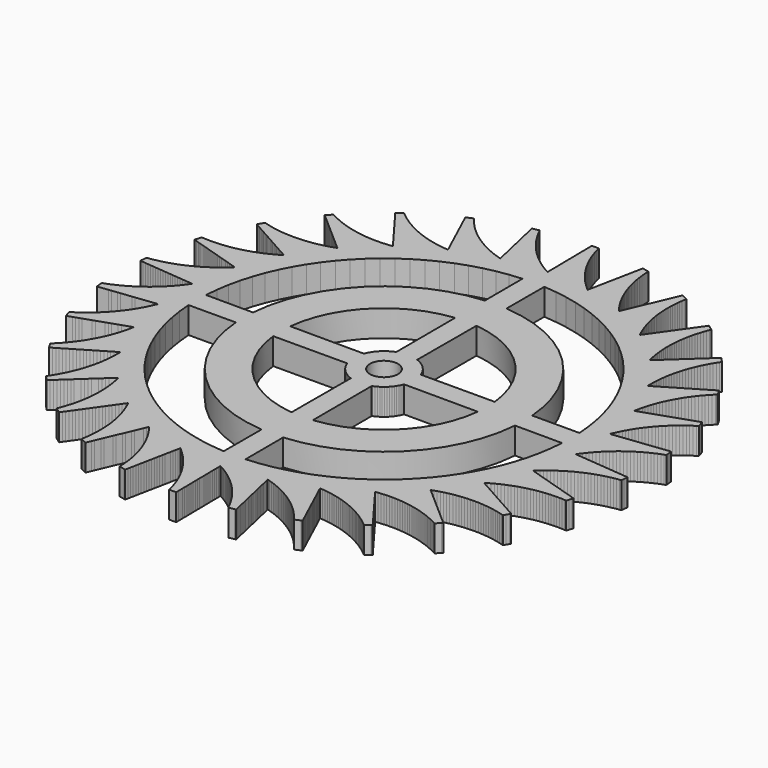
from build123d import *

# Parameters (mm, degrees)
F0_R     = 2.65
F1_DEPTH = 5


with BuildPart() as f1:
    # F0 (on Top) → F1 (new body)
    with BuildSketch(Plane.XY):
        Polygon((-36.566213, 33.860984), (-36.716125, 33.940037), (-37.058747, 33.559517), (-37.401369, 33.178997), (-37.59199, 32.967291), (-37.207018, 32.629679), (-36.822046, 32.292068), (-36.437074, 31.954456), (-36.052102, 31.616845), (-35.66713, 31.279233), (-35.282157, 30.941622), (-34.897185, 30.60401), (-34.512213, 30.266399), (-34.127241, 29.928787), (-33.742269, 29.591175), (-33.357297, 29.253564), (-32.972324, 28.915952), (-32.587352, 28.578341), (-32.20238, 28.240729), (-31.817408, 27.903118), (-31.432436, 27.565506), (-31.047464, 27.227895), (-30.662491, 26.890283), (-30.277519, 26.552672), (-29.892547, 26.21506), (-29.575384, 25.936915), (-30.059562, 25.770314), (-30.547846, 25.616159), (-31.039916, 25.474551), (-31.528298, 25.334004), (-32.026202, 25.21452), (-32.527001, 25.107817), (-33.030367, 25.013966), (-33.529961, 24.920819), (-34.037017, 24.849548), (-34.545731, 24.791278), (-35.055769, 24.746047), (-35.561986, 24.701155), (-36.073536, 24.678753), (-36.585491, 24.66945), (-36.924325, 24.663294), (-37.436261, 24.673613), (-37.947766, 24.697031), (-38.458503, 24.733533), (-38.965414, 24.769761), (-39.474011, 24.829042), (-39.980924, 24.90132), (-40.485821, 24.986548), (-40.986935, 25.071138), (-41.487521, 25.178835), (-41.985187, 25.299309), (-42.479606, 25.432481), (-42.970321, 25.564654), (-43.226341, 25.121215), (-43.482361, 24.677775), (-43.6248, 24.431062), (-43.178047, 24.180868), (-42.731294, 23.930675), (-42.284541, 23.680481), (-41.837788, 23.430287), (-41.391035, 23.180094), (-40.944282, 22.9299), (-40.497529, 22.679706), (-40.050777, 22.429513), (-39.604024, 22.179319), (-39.157271, 21.929125), (-38.710518, 21.678931), (-38.263765, 21.428738), (-37.817012, 21.178544), (-37.370259, 20.92835), (-36.923506, 20.678157), (-36.476753, 20.427963), (-36.03, 20.177769), (-35.583247, 19.927576), (-35.136494, 19.677382), (-34.689741, 19.427188), (-34.321679, 19.221063), (-34.760638, 18.957436), (-35.206202, 18.70513), (-35.658076, 18.46431), (-36.106565, 18.225294), (-36.568746, 18.0049), (-37.036417, 17.796407), (-37.50927, 17.599952), (-37.978581, 17.404968), (-38.459738, 17.229832), (-38.94522, 17.067068), (-39.434709, 16.916782), (-39.92053, 16.767623), (-40.416244, 16.639353), (-40.915078, 16.523812), (-41.416706, 16.421077), (-41.914575, 16.319111), (-42.420291, 16.238886), (-42.927895, 16.17163), (-43.437054, 16.117388), (-43.942398, 16.063553), (-44.453472, 16.03211), (-44.965183, 16.013757), (-45.303855, 16.00161), (-45.815893, 16.002877), (-46.327732, 16.017247), (-46.839035, 16.044713), (-47.346506, 16.071973), (-47.504736, 15.584994), (-47.662965, 15.098015), (-47.750997, 14.827079), (-47.261989, 14.675238), (-46.77298, 14.523396), (-46.283972, 14.371555), (-45.794963, 14.219714), (-45.305954, 14.067873), (-44.816946, 13.916032), (-44.327937, 13.76419), (-43.838929, 13.612349), (-43.34992, 13.460508), (-42.860912, 13.308667), (-42.371903, 13.156826), (-41.882895, 13.004984), (-41.393886, 12.853143), (-40.904878, 12.701302), (-40.415869, 12.549461), (-39.92686, 12.39762), (-39.437852, 12.245778), (-38.948843, 12.093937), (-38.459835, 11.942096), (-37.970826, 11.790255), (-37.567951, 11.665159), (-37.942508, 11.316028), (-38.325877, 10.976597), (-38.717808, 10.647089), (-39.106801, 10.32005), (-39.513061, 10.00838), (-39.927163, 9.707209), (-40.348839, 9.416735), (-40.767354, 9.128437), (-41.201584, 8.85709), (-41.642617, 8.596945), (-42.090163, 8.348173), (-42.534355, 8.101265), (-42.992568, 7.872734), (-43.456479, 7.656004), (-43.925785, 7.451219), (-44.391574, 7.247969), (-44.86956, 7.064353), (-45.352088, 6.89303), (-45.838844, 6.734113), (-46.321951, 6.576387), (-46.81532, 6.439373), (-47.312033, 6.315031), (-47.811766, 6.203442), (-48.307754, 6.092689), (-48.811973, 6.003536), (-49.318309, 5.927316), (-49.653423, 5.87687), (-49.706946, 5.367635), (-49.760468, 4.8584), (-49.790246, 4.575081), (-49.280354, 4.528228), (-48.770462, 4.481376), (-48.26057, 4.434523), (-47.750678, 4.387671), (-47.240786, 4.340818), (-46.730894, 4.293966), (-46.221002, 4.247113), (-45.71111, 4.200261), (-45.201217, 4.153408), (-44.691325, 4.106556), (-44.181433, 4.059703), (-43.671541, 4.012851), (-43.161649, 3.965998), (-42.651757, 3.919146), (-42.141865, 3.872293), (-41.631973, 3.825441), (-41.122081, 3.778588), (-40.612189, 3.731736), (-40.102297, 3.684883), (-39.592404, 3.638031), (-39.172324, 3.599431), (-39.466107, 3.180055), (-39.770527, 2.768334), (-40.085385, 2.36454), (-40.397883, 1.963771), (-40.730465, 1.574446), (-41.072901, 1.193759), (-41.424969, 0.821961), (-41.774398, 0.452949), (-42.142723, 0.09725), (-42.520031, -0.248906), (-42.906074, -0.585292), (-43.289225, -0.919157), (-43.68991, -1.237962), (-44.098623, -1.546408), (-44.515097, -1.844292), (-44.928449, -2.139944), (-45.357814, -2.418926), (-45.794178, -2.686828), (-46.237256, -2.943475), (-46.677013, -3.198198), (-47.131114, -3.434795), (-47.59112, -3.659693), (-48.056732, -3.872743), (-48.518855, -4.084198), (-48.99352, -4.276236), (-49.472943, -4.456063), (-49.790246, -4.575081), (-49.736724, -5.084316), (-49.683201, -5.593551), (-49.653423, -5.87687), (-49.144932, -5.816686), (-48.636441, -5.756502), (-48.12795, -5.696318), (-47.619459, -5.636134), (-47.110968, -5.575951), (-46.602477, -5.515767), (-46.093986, -5.455583), (-45.585496, -5.395399), (-45.077005, -5.335215), (-44.568514, -5.275031), (-44.060023, -5.214847), (-43.551532, -5.154663), (-43.043041, -5.09448), (-42.53455, -5.034296), (-42.026059, -4.974112), (-41.517568, -4.913928), (-41.009077, -4.853744), (-40.500586, -4.79356), (-39.992095, -4.733376), (-39.483605, -4.673193), (-39.064679, -4.623609), (-39.264849, -5.094902), (-39.477015, -5.560918), (-39.701039, -6.021351), (-39.923384, -6.478334), (-40.167752, -6.9283), (-40.423556, -7.371864), (-40.690629, -7.808736), (-40.955701, -8.242334), (-41.242023, -8.66684), (-41.539116, -9.083878), (-41.846785, -9.493176), (-42.152148, -9.899407), (-42.477794, -10.294552), (-42.813446, -10.681234), (-43.158885, -11.059199), (-43.501736, -11.434331), (-43.863714, -11.796487), (-44.234842, -12.14926), (-44.614878, -12.492419), (-44.992066, -12.833006), (-45.387052, -13.158846), (-45.790247, -13.47447), (-46.201389, -13.779671), (-46.609449, -14.082585), (-47.033814, -14.369115), (-47.465373, -14.644691), (-47.750997, -14.827079), (-47.592768, -15.314058), (-47.434539, -15.801037), (-47.346506, -16.071973), (-46.86164, -15.907383), (-46.376774, -15.742793), (-45.891908, -15.578204), (-45.407042, -15.413614), (-44.922175, -15.249024), (-44.437309, -15.084434), (-43.952443, -14.919844), (-43.467577, -14.755254), (-42.98271, -14.590664), (-42.497844, -14.426074), (-42.012978, -14.261484), (-41.528112, -14.096894), (-41.043245, -13.932304), (-40.558379, -13.767715), (-40.073513, -13.603125), (-39.588647, -13.438535), (-39.10378, -13.273945), (-38.618914, -13.109355), (-38.134048, -12.944765), (-37.649182, -12.780175), (-37.249719, -12.644576), (-37.347528, -13.147188), (-37.458167, -13.647132), (-37.581566, -14.14408), (-37.70404, -14.637305), (-37.849516, -15.128245), (-38.007508, -15.615301), (-38.177914, -16.098154), (-38.347043, -16.577389), (-38.538849, -17.052147), (-38.742742, -17.521841), (-38.95859, -17.986163), (-39.17282, -18.447006), (-39.409195, -18.901222), (-39.657116, -19.34924), (-39.916423, -19.790765), (-40.173787, -20.228983), (-40.452559, -20.658484), (-40.742232, -21.08071), (-41.042616, -21.495384), (-41.340749, -21.906951), (-41.659358, -22.307792), (-41.988121, -22.700348), (-42.326823, -23.084361), (-42.662987, -23.465496), (-43.018505, -23.833996), (-43.383338, -24.193275), (-43.6248, -24.431062), (-43.36878, -24.874502), (-43.11276, -25.317942), (-42.970321, -25.564654), (-42.53027, -25.302852), (-42.090219, -25.041049), (-41.650169, -24.779247), (-41.210118, -24.517444), (-40.770068, -24.255641), (-40.330017, -23.993839), (-39.889966, -23.732036), (-39.449916, -23.470234), (-39.009865, -23.208431), (-38.569815, -22.946628), (-38.129764, -22.684826), (-37.689714, -22.423023), (-37.249663, -22.161221), (-36.809612, -21.899418), (-36.369562, -21.637616), (-35.929511, -21.375813), (-35.489461, -21.11401), (-35.04941, -20.852208), (-34.609359, -20.590405), (-34.169309, -20.328603), (-33.806769, -20.112914), (-33.797941, -20.624878), (-33.802218, -21.1369), (-33.819599, -21.648645), (-33.83685, -22.156556), (-33.877074, -22.667013), (-33.930349, -23.176274), (-33.99664, -23.684005), (-34.062435, -24.187931), (-34.151342, -24.692194), (-34.253124, -25.194016), (-34.367718, -25.693069), (-34.481452, -26.188382), (-34.618224, -26.681817), (-34.76758, -27.171591), (-34.929422, -27.657381), (-35.090052, -28.139531), (-35.273433, -28.617607), (-35.46899, -29.090832), (-35.676595, -29.558898), (-35.882644, -30.023456), (-36.11095, -30.481781), (-36.350912, -30.934112), (-36.602372, -31.380154), (-36.851947, -31.822853), (-37.123082, -32.257216), (-37.405244, -32.684498), (-37.59199, -32.967291), (-37.249369, -33.347811), (-36.906747, -33.728331), (-36.716125, -33.940037), (-36.340123, -33.592464), (-35.96412, -33.244891), (-35.588118, -32.897318), (-35.212115, -32.549744), (-34.836112, -32.202171), (-34.46011, -31.854598), (-34.084107, -31.507025), (-33.708105, -31.159451), (-33.332102, -30.811878), (-32.956099, -30.464305), (-32.580097, -30.116732), (-32.204094, -29.769159), (-31.828092, -29.421585), (-31.452089, -29.074012), (-31.076086, -28.726439), (-30.700084, -28.378866), (-30.324081, -28.031292), (-29.948079, -27.683719), (-29.572076, -27.336146), (-29.196073, -26.988573), (-28.8863, -26.702221), (-28.771221, -27.201162), (-28.66895, -27.702884), (-28.579553, -28.20706), (-28.490827, -28.707458), (-28.424042, -29.215124), (-28.370271, -29.724333), (-28.329551, -30.234752), (-28.289135, -30.741346), (-28.271257, -31.253074), (-28.266481, -31.765091), (-28.274811, -32.277064), (-28.283079, -32.7852), (-28.314271, -33.296289), (-28.358534, -33.806412), (-28.415838, -34.315236), (-28.472712, -34.820247), (-28.552689, -35.326002), (-28.645583, -35.829546), (-28.751335, -36.330546), (-28.856294, -36.827793), (-28.984321, -37.323569), (-29.124994, -37.815907), (-29.278221, -38.304483), (-29.430301, -38.789398), (-29.605201, -39.270641), (-29.79236, -39.74725), (-29.91623, -40.062691), (-29.501981, -40.36366), (-29.087732, -40.66463), (-28.857259, -40.832078), (-28.561738, -40.413925), (-28.266216, -39.995771), (-27.970695, -39.577618), (-27.675173, -39.159465), (-27.379652, -38.741311), (-27.08413, -38.323158), (-26.788609, -37.905005), (-26.493087, -37.486852), (-26.197566, -37.068698), (-25.902044, -36.650545), (-25.606523, -36.232392), (-25.311001, -35.814239), (-25.01548, -35.396085), (-24.719958, -34.977932), (-24.424437, -34.559779), (-24.128915, -34.141626), (-23.833394, -33.723472), (-23.537872, -33.305319), (-23.242351, -32.887166), (-22.946829, -32.469013), (-22.703361, -32.124513), (-22.487062, -32.588624), (-22.282711, -33.05812), (-22.090444, -33.532692), (-21.899617, -34.003707), (-21.728742, -34.486394), (-21.570276, -34.973296), (-21.424324, -35.464095), (-21.279465, -35.951215), (-21.155583, -36.448044), (-21.044457, -36.94788), (-20.94616, -37.450396), (-20.848599, -37.949147), (-20.772849, -38.455553), (-20.710083, -38.963732), (-20.660345, -39.473351), (-20.610979, -39.979151), (-20.584056, -40.490482), (-20.570227, -41.002336), (-20.569504, -41.514375), (-20.568786, -42.022578), (-20.590937, -42.534139), (-20.626173, -43.044965), (-20.674472, -43.554722), (-20.722409, -44.06066), (-20.793431, -44.567751), (-20.877408, -45.072857), (-20.932987, -45.407159), (-20.465215, -45.615424), (-19.997443, -45.82369), (-19.737193, -45.939561), (-19.535068, -45.469103), (-19.332943, -44.998645), (-19.130819, -44.528187), (-18.928694, -44.057729), (-18.726569, -43.587271), (-18.524445, -43.116813), (-18.32232, -42.646355), (-18.120195, -42.175897), (-17.91807, -41.705439), (-17.715946, -41.234981), (-17.513821, -40.764523), (-17.311696, -40.294065), (-17.109572, -39.823607), (-16.907447, -39.353149), (-16.705322, -38.882691), (-16.503198, -38.412233), (-16.301073, -37.941775), (-16.098948, -37.471317), (-15.896823, -37.000859), (-15.694699, -36.530401), (-15.528176, -36.142809), (-15.220109, -36.551808), (-14.922611, -36.968557), (-14.635876, -37.392783), (-14.35129, -37.813831), (-14.083792, -38.250444), (-13.827557, -38.693759), (-13.582751, -39.143487), (-13.339779, -39.589845), (-13.115308, -40.05006), (-12.902689, -40.515869), (-12.702061, -40.986967), (-12.502936, -41.454535), (-12.323553, -41.934125), (-12.156503, -42.418149), (-12.001896, -42.90629), (-11.848447, -43.390774), (-11.7158, -43.885334), (-11.595854, -44.383127), (-11.488687, -44.883827), (-11.382324, -45.380775), (-11.297631, -45.885763), (-11.22589, -46.392752), (-11.167149, -46.901412), (-11.108848, -47.40626), (-11.072888, -47.917036), (-11.050012, -48.428565), (-11.034872, -48.767116), (-10.534021, -48.873575), (-10.03317, -48.980034), (-9.754516, -49.039264), (-9.654622, -48.537063), (-9.554728, -48.034861), (-9.454834, -47.53266), (-9.35494, -47.030458), (-9.255046, -46.528257), (-9.155152, -46.026055), (-9.055258, -45.523854), (-8.955363, -45.021653), (-8.855469, -44.519451), (-8.755575, -44.01725), (-8.655681, -43.515048), (-8.555787, -43.012847), (-8.455893, -42.510645), (-8.355999, -42.008444), (-8.256105, -41.506242), (-8.156211, -41.004041), (-8.056317, -40.50184), (-7.956423, -39.999638), (-7.856529, -39.497437), (-7.756635, -38.995235), (-7.674336, -38.581491), (-7.287965, -38.917502), (-6.910321, -39.26329), (-6.54165, -39.618631), (-6.175742, -39.971309), (-5.823313, -40.342765), (-5.480507, -40.723118), (-5.147547, -41.11212), (-4.817082, -41.498208), (-4.501832, -41.901696), (-4.197011, -42.313119), (-3.902821, -42.73221), (-3.610834, -43.14816), (-3.335659, -43.579975), (-3.071625, -44.01869), (-2.818906, -44.464019), (-2.568081, -44.906012), (-2.335508, -45.362186), (-2.114685, -45.824163), (-1.905759, -46.29164), (-1.698399, -46.755614), (-1.510564, -47.231958), (-1.334982, -47.712953), (-1.171768, -48.198284), (-1.009777, -48.679979), (-0.868407, -49.172116), (-0.739678, -49.667711), (-0.65448, -49.995716), (-0.14244, -49.995716), (0.369601, -49.995716), (0.65448, -49.995716), (0.647777, -49.48372), (0.641075, -48.971724), (0.634373, -48.459728), (0.62767, -47.947731), (0.620968, -47.435735), (0.614265, -46.923739), (0.607563, -46.411742), (0.600861, -45.899746), (0.594158, -45.38775), (0.587456, -44.875754), (0.580753, -44.363757), (0.574051, -43.851761), (0.567349, -43.339765), (0.560646, -42.827769), (0.553944, -42.315772), (0.547241, -41.803776), (0.540539, -41.29178), (0.533837, -40.779783), (0.527134, -40.267787), (0.520432, -39.755791), (0.51491, -39.333977), (0.962698, -39.582314), (1.403983, -39.84203), (1.838477, -40.112955), (2.269715, -40.381849), (2.691672, -40.671913), (3.106068, -40.972681), (3.51263, -41.283957), (3.916146, -41.5929), (4.308396, -41.922026), (4.692096, -42.261084), (5.066991, -42.609851), (5.439078, -42.956004), (5.798019, -43.32117), (6.147498, -43.695403), (6.487283, -44.078457), (6.824523, -44.458642), (7.146858, -44.856493), (7.458905, -45.262463), (7.760459, -45.676286), (8.059754, -46.087009), (8.342521, -46.513891), (8.614271, -46.947869), (8.874824, -47.38866), (9.133425, -47.826149), (9.374028, -48.27814), (9.602983, -48.73614), (9.754516, -49.039264), (10.255367, -48.932805), (10.756218, -48.826346), (11.034872, -48.767116), (10.921866, -48.267702), (10.80886, -47.768287), (10.695854, -47.268873), (10.582848, -46.769458), (10.469842, -46.270044), (10.356836, -45.770629), (10.24383, -45.271215), (10.130824, -44.771801), (10.017818, -44.272386), (9.904812, -43.772972), (9.791806, -43.273557), (9.6788, -42.774143), (9.565794, -42.274729), (9.452789, -41.775314), (9.339783, -41.2759), (9.226777, -40.776485), (9.113771, -40.277071), (9.000765, -39.777656), (8.887759, -39.278242), (8.774753, -38.778828), (8.681652, -38.36738), (9.171286, -38.51719), (9.656927, -38.679481), (10.138254, -38.854149), (10.615975, -39.027509), (11.089019, -39.223504), (11.556892, -39.431542), (12.019288, -39.651486), (12.478219, -39.869783), (12.930327, -40.110164), (13.376136, -40.362036), (13.815352, -40.625237), (14.251277, -40.886465), (14.678296, -41.169023), (15.097945, -41.462417), (15.509947, -41.766455), (15.918862, -42.068216), (16.316871, -42.390355), (16.706505, -42.722576), (17.087509, -43.06466), (17.465657, -43.40418), (17.830999, -43.762943), (18.187039, -44.130938), (18.533545, -44.507925), (18.877453, -44.882087), (19.206772, -45.274177), (19.525948, -45.674566), (19.737193, -45.93956), (20.204965, -45.731295), (20.672737, -45.52303), (20.932987, -45.407159), (20.718616, -44.942153), (20.504246, -44.477147), (20.289875, -44.012141), (20.075505, -43.547136), (19.861134, -43.08213), (19.646763, -42.617124), (19.432393, -42.152118), (19.218022, -41.687113), (19.003652, -41.222107), (18.789281, -40.757101), (18.57491, -40.292095), (18.36054, -39.82709), (18.146169, -39.362084), (17.931799, -38.897078), (17.717428, -38.432072), (17.503057, -37.967066), (17.288687, -37.502061), (17.074316, -37.037055), (16.859946, -36.572049), (16.645575, -36.107043), (16.468964, -35.723943), (16.979046, -35.768679), (17.487816, -35.826454), (17.994941, -35.897232), (18.498266, -35.967479), (19.001723, -36.06084), (19.502625, -36.167055), (20.000645, -36.286056), (20.494933, -36.404165), (20.98714, -36.545294), (21.475574, -36.698974), (21.959915, -36.865105), (22.440626, -37.02999), (22.917062, -37.217591), (23.38854, -37.417324), (23.854752, -37.629059), (24.317471, -37.839207), (24.773759, -38.071556), (25.223951, -38.315507), (25.667752, -38.570901), (26.108227, -38.82438), (26.540176, -39.099344), (26.964947, -39.385273), (27.38226, -39.681979), (27.796446, -39.976462), (28.200089, -40.291515), (28.595536, -40.616794), (28.85726, -40.832078), (29.271509, -40.531108), (29.685758, -40.230138), (29.91623, -40.062691), (29.609864, -39.652417), (29.303498, -39.242142), (28.997131, -38.831868), (28.690765, -38.421594), (28.384399, -38.01132), (28.078033, -37.601046), (27.771667, -37.190772), (27.4653, -36.780498), (27.158934, -36.370224), (26.852568, -35.959949), (26.546202, -35.549675), (26.239835, -35.139401), (25.933469, -34.729127), (25.627103, -34.318853), (25.320737, -33.908579), (25.014371, -33.498305), (24.708004, -33.088031), (24.401638, -32.677757), (24.095272, -32.267482), (23.788906, -31.857208), (23.536503, -31.5192), (24.044739, -31.456905), (24.554404, -31.407639), (25.065162, -31.371432), (25.572094, -31.335497), (26.08396, -31.322144), (26.596, -31.321895), (27.107878, -31.334751), (27.615921, -31.34751), (28.126715, -31.38322), (28.636427, -31.43199), (29.144724, -31.493791), (29.649212, -31.555128), (30.154241, -31.639573), (30.656943, -31.736915), (31.15699, -31.847092), (31.653289, -31.956443), (32.147914, -32.088847), (32.638989, -32.233867), (33.126191, -32.391408), (33.609742, -32.547769), (34.08942, -32.726917), (34.564357, -32.918282), (35.034239, -33.121741), (35.500601, -33.323674), (35.960926, -33.54792), (36.415361, -33.783873), (36.716125, -33.940037), (37.058747, -33.559517), (37.401369, -33.178997), (37.59199, -32.967291), (37.207018, -32.629679), (36.822046, -32.292068), (36.437074, -31.954456), (36.052102, -31.616845), (35.66713, -31.279233), (35.282157, -30.941622), (34.897185, -30.60401), (34.512213, -30.266399), (34.127241, -29.928787), (33.742269, -29.591175), (33.357297, -29.253564), (32.972324, -28.915952), (32.587352, -28.578341), (32.20238, -28.240729), (31.817408, -27.903118), (31.432436, -27.565506), (31.047464, -27.227895), (30.662491, -26.890283), (30.277519, -26.552672), (29.892547, -26.21506), (29.575384, -25.936915), (30.059562, -25.770314), (30.547846, -25.616159), (31.039916, -25.474551), (31.528298, -25.334004), (32.026202, -25.21452), (32.527001, -25.107817), (33.030367, -25.013966), (33.529961, -24.920819), (34.037017, -24.849548), (34.545731, -24.791278), (35.055769, -24.746047), (35.561986, -24.701155), (36.073536, -24.678753), (36.585491, -24.66945), (37.097517, -24.673254), (37.605707, -24.677029), (38.117052, -24.703702), (38.627546, -24.743453), (39.136857, -24.796256), (39.642351, -24.848664), (40.148793, -24.924166), (40.653138, -25.012605), (41.155054, -25.113923), (41.653209, -25.214482), (42.150098, -25.338121), (42.64366, -25.474435), (42.970321, -25.564654), (43.226341, -25.121215), (43.482361, -24.677775), (43.6248, -24.431062), (43.178047, -24.180868), (42.731294, -23.930675), (42.284541, -23.680481), (41.837788, -23.430287), (41.391035, -23.180094), (40.944282, -22.9299), (40.497529, -22.679706), (40.050777, -22.429513), (39.604024, -22.179319), (39.157271, -21.929125), (38.710518, -21.678931), (38.263765, -21.428738), (37.817012, -21.178544), (37.370259, -20.92835), (36.923506, -20.678157), (36.476753, -20.427963), (36.03, -20.177769), (35.583247, -19.927576), (35.136494, -19.677382), (34.689741, -19.427188), (34.321679, -19.221063), (34.760639, -18.957436), (35.206202, -18.70513), (35.658076, -18.46431), (36.106565, -18.225294), (36.568746, -18.0049), (37.036417, -17.796407), (37.50927, -17.599952), (37.978581, -17.404968), (38.459738, -17.229832), (38.94522, -17.067068), (39.434709, -16.916782), (39.92053, -16.767622), (40.416244, -16.639353), (40.915078, -16.523812), (41.416706, -16.421077), (41.914575, -16.319111), (42.420291, -16.238886), (42.927895, -16.17163), (43.437054, -16.117388), (43.942398, -16.063553), (44.453472, -16.03211), (44.965183, -16.013757), (45.477196, -16.008507), (45.985372, -16.003296), (46.497109, -16.020924), (47.008227, -16.051642), (47.346506, -16.071973), (47.504736, -15.584994), (47.662965, -15.098015), (47.750997, -14.827079), (47.261989, -14.675238), (46.77298, -14.523396), (46.283972, -14.371555), (45.794963, -14.219714), (45.305954, -14.067873), (44.816946, -13.916032), (44.327937, -13.76419), (43.838929, -13.612349), (43.34992, -13.460508), (42.860912, -13.308667), (42.371903, -13.156826), (41.882895, -13.004984), (41.393886, -12.853143), (40.904878, -12.701302), (40.415869, -12.549461), (39.92686, -12.39762), (39.437852, -12.245778), (38.948843, -12.093937), (38.459835, -11.942096), (37.970826, -11.790255), (37.567951, -11.665159), (37.942508, -11.316028), (38.325877, -10.976597), (38.717808, -10.647089), (39.106801, -10.32005), (39.513061, -10.00838), (39.927163, -9.707209), (40.348839, -9.416735), (40.767354, -9.128437), (41.201584, -8.85709), (41.642617, -8.596945), (42.090163, -8.348173), (42.534355, -8.101265), (42.992568, -7.872734), (43.456479, -7.656004), (43.925785, -7.451219), (44.391574, -7.247969), (44.86956, -7.064353), (45.352088, -6.89303), (45.838844, -6.734113), (46.321951, -6.576387), (46.81532, -6.439373), (47.312033, -6.315031), (47.811766, -6.203442), (48.307754, -6.092689), (48.811973, -6.003536), (49.318309, -5.927316), (49.653423, -5.87687), (49.706946, -5.367635), (49.760468, -4.8584), (49.790246, -4.575081), (49.280354, -4.528228), (48.770462, -4.481376), (48.26057, -4.434523), (47.750678, -4.387671), (47.240786, -4.340818), (46.730894, -4.293966), (46.221002, -4.247113), (45.71111, -4.200261), (45.201217, -4.153408), (44.691325, -4.106556), (44.181433, -4.059703), (43.671541, -4.012851), (43.161649, -3.965998), (42.651757, -3.919146), (42.141865, -3.872293), (41.631973, -3.825441), (41.122081, -3.778588), (40.612189, -3.731736), (40.102297, -3.684883), (39.592404, -3.638031), (39.172324, -3.599431), (39.466107, -3.180055), (39.770527, -2.768334), (40.085385, -2.36454), (40.397883, -1.963771), (40.730465, -1.574446), (41.072901, -1.193759), (41.424969, -0.821961), (41.774398, -0.452949), (42.142723, -0.09725), (42.520031, 0.248906), (42.906074, 0.585292), (43.289225, 0.919157), (43.68991, 1.237962), (44.098623, 1.546408), (44.515097, 1.844292), (44.928449, 2.139944), (45.357814, 2.418926), (45.794178, 2.686828), (46.237256, 2.943475), (46.677013, 3.198198), (47.131114, 3.434795), (47.59112, 3.659693), (48.056732, 3.872743), (48.518855, 4.084198), (48.99352, 4.276236), (49.472943, 4.456063), (49.790246, 4.575081), (49.736724, 5.084316), (49.683201, 5.593551), (49.653423, 5.87687), (49.144932, 5.816686), (48.636441, 5.756502), (48.12795, 5.696318), (47.619459, 5.636134), (47.110968, 5.575951), (46.602477, 5.515767), (46.093986, 5.455583), (45.585496, 5.395399), (45.077005, 5.335215), (44.568514, 5.275031), (44.060023, 5.214847), (43.551532, 5.154664), (43.043041, 5.09448), (42.53455, 5.034296), (42.026059, 4.974112), (41.517568, 4.913928), (41.009077, 4.853744), (40.500586, 4.79356), (39.992095, 4.733376), (39.483605, 4.673193), (39.064679, 4.623609), (39.264849, 5.094902), (39.477015, 5.560918), (39.701039, 6.021351), (39.923384, 6.478334), (40.167752, 6.9283), (40.423556, 7.371864), (40.690629, 7.808736), (40.955701, 8.242334), (41.242023, 8.66684), (41.539116, 9.083878), (41.846785, 9.493176), (42.152148, 9.899407), (42.477794, 10.294553), (42.813446, 10.681234), (43.158885, 11.059199), (43.501736, 11.434331), (43.863714, 11.796487), (44.234842, 12.14926), (44.614878, 12.492419), (44.992066, 12.833006), (45.387052, 13.158846), (45.790247, 13.47447), (46.201389, 13.779671), (46.609449, 14.082585), (47.033814, 14.369115), (47.465373, 14.644691), (47.750997, 14.827079), (47.592768, 15.314058), (47.434539, 15.801037), (47.346506, 16.071973), (46.86164, 15.907383), (46.376774, 15.742793), (45.891908, 15.578204), (45.407042, 15.413614), (44.922175, 15.249024), (44.437309, 15.084434), (43.952443, 14.919844), (43.467577, 14.755254), (42.98271, 14.590664), (42.497844, 14.426074), (42.012978, 14.261484), (41.528112, 14.096894), (41.043245, 13.932304), (40.558379, 13.767715), (40.073513, 13.603125), (39.588647, 13.438535), (39.10378, 13.273945), (38.618914, 13.109355), (38.134048, 12.944765), (37.649182, 12.780175), (37.249719, 12.644576), (37.347528, 13.147188), (37.458167, 13.647132), (37.581566, 14.14408), (37.70404, 14.637305), (37.849516, 15.128245), (38.007508, 15.615301), (38.177914, 16.098154), (38.347043, 16.577389), (38.538849, 17.052147), (38.742742, 17.521841), (38.95859, 17.986163), (39.17282, 18.447006), (39.409195, 18.901222), (39.657116, 19.34924), (39.916423, 19.790765), (40.173787, 20.228983), (40.452559, 20.658484), (40.742232, 21.08071), (41.042616, 21.495384), (41.340749, 21.906951), (41.659358, 22.307792), (41.988121, 22.700348), (42.326823, 23.084361), (42.662987, 23.465496), (43.018505, 23.833996), (43.383338, 24.193275), (43.6248, 24.431062), (43.36878, 24.874502), (43.11276, 25.317942), (42.970321, 25.564654), (42.53027, 25.302852), (42.090219, 25.041049), (41.650169, 24.779247), (41.210118, 24.517444), (40.770068, 24.255641), (40.330017, 23.993839), (39.889966, 23.732036), (39.449916, 23.470234), (39.009865, 23.208431), (38.569815, 22.946628), (38.129764, 22.684826), (37.689714, 22.423023), (37.249663, 22.161221), (36.809612, 21.899418), (36.369562, 21.637616), (35.929511, 21.375813), (35.489461, 21.11401), (35.04941, 20.852208), (34.609359, 20.590405), (34.169309, 20.328603), (33.806769, 20.112914), (33.797941, 20.624878), (33.802218, 21.1369), (33.819599, 21.648645), (33.83685, 22.156556), (33.877074, 22.667013), (33.930349, 23.176274), (33.99664, 23.684005), (34.062435, 24.187931), (34.151342, 24.692194), (34.253124, 25.194016), (34.367718, 25.693069), (34.481452, 26.188382), (34.618224, 26.681817), (34.76758, 27.171591), (34.929422, 27.657381), (35.090052, 28.139531), (35.273433, 28.617607), (35.46899, 29.090832), (35.676595, 29.558898), (35.882644, 30.023456), (36.11095, 30.481781), (36.350912, 30.934112), (36.602372, 31.380154), (36.851947, 31.822853), (37.123082, 32.257216), (37.405244, 32.684498), (37.59199, 32.967291), (37.249369, 33.347811), (36.906747, 33.728331), (36.716125, 33.940037), (36.340123, 33.592464), (35.96412, 33.244891), (35.588118, 32.897318), (35.212115, 32.549744), (34.836112, 32.202171), (34.46011, 31.854598), (34.084107, 31.507025), (33.708105, 31.159451), (33.332102, 30.811878), (32.956099, 30.464305), (32.580097, 30.116732), (32.204094, 29.769159), (31.828092, 29.421585), (31.452089, 29.074012), (31.076086, 28.726439), (30.700084, 28.378866), (30.324081, 28.031292), (29.948079, 27.683719), (29.572076, 27.336146), (29.196073, 26.988573), (28.8863, 26.702221), (28.771221, 27.201162), (28.66895, 27.702884), (28.579553, 28.20706), (28.490827, 28.707458), (28.424042, 29.215124), (28.370271, 29.724333), (28.329551, 30.234752), (28.289135, 30.741346), (28.271257, 31.253074), (28.266481, 31.765091), (28.274811, 32.277064), (28.283079, 32.7852), (28.314271, 33.296289), (28.358534, 33.806412), (28.415838, 34.315236), (28.472712, 34.820247), (28.552689, 35.326002), (28.645583, 35.829546), (28.751335, 36.330546), (28.856294, 36.827793), (28.984321, 37.323569), (29.124994, 37.815907), (29.278221, 38.304483), (29.430301, 38.789398), (29.605201, 39.270641), (29.79236, 39.74725), (29.91623, 40.062691), (29.501981, 40.36366), (29.087732, 40.66463), (28.857259, 40.832078), (28.561738, 40.413925), (28.266216, 39.995771), (27.970695, 39.577618), (27.675173, 39.159465), (27.379652, 38.741311), (27.08413, 38.323158), (26.788609, 37.905005), (26.493087, 37.486852), (26.197566, 37.068698), (25.902044, 36.650545), (25.606523, 36.232392), (25.311001, 35.814239), (25.01548, 35.396085), (24.719958, 34.977932), (24.424437, 34.559779), (24.128915, 34.141626), (23.833394, 33.723472), (23.537872, 33.305319), (23.242351, 32.887166), (22.946829, 32.469013), (22.703361, 32.124513), (22.487062, 32.588624), (22.282711, 33.05812), (22.090444, 33.532692), (21.899617, 34.003707), (21.728742, 34.486394), (21.570276, 34.973296), (21.424324, 35.464095), (21.279465, 35.951215), (21.155583, 36.448044), (21.044457, 36.94788), (20.94616, 37.450396), (20.848599, 37.949147), (20.772849, 38.455553), (20.710083, 38.963732), (20.660345, 39.473351), (20.610979, 39.979151), (20.584056, 40.490482), (20.570227, 41.002336), (20.569504, 41.514375), (20.568786, 42.022578), (20.590937, 42.534139), (20.626173, 43.044965), (20.674472, 43.554722), (20.722409, 44.06066), (20.793431, 44.567751), (20.877408, 45.072857), (20.932987, 45.407159), (20.465215, 45.615424), (19.997443, 45.82369), (19.737193, 45.939561), (19.535068, 45.469103), (19.332943, 44.998645), (19.130819, 44.528187), (18.928694, 44.057729), (18.726569, 43.587271), (18.524445, 43.116813), (18.32232, 42.646355), (18.120195, 42.175897), (17.91807, 41.705439), (17.715946, 41.234981), (17.513821, 40.764523), (17.311696, 40.294065), (17.109572, 39.823607), (16.907447, 39.353149), (16.705322, 38.882691), (16.503198, 38.412233), (16.301073, 37.941775), (16.098948, 37.471317), (15.896823, 37.000859), (15.694699, 36.530401), (15.528176, 36.142809), (15.220109, 36.551808), (14.922611, 36.968557), (14.635876, 37.392783), (14.35129, 37.813831), (14.083792, 38.250444), (13.827557, 38.693759), (13.582751, 39.143487), (13.339779, 39.589845), (13.115308, 40.05006), (12.902689, 40.515869), (12.702061, 40.986967), (12.502936, 41.454535), (12.323553, 41.934125), (12.156503, 42.418149), (12.001896, 42.90629), (11.848447, 43.390774), (11.7158, 43.885334), (11.595854, 44.383127), (11.488687, 44.883827), (11.382324, 45.380775), (11.297631, 45.885763), (11.22589, 46.392752), (11.167149, 46.901412), (11.108848, 47.40626), (11.072888, 47.917036), (11.050012, 48.428565), (11.034872, 48.767116), (10.534021, 48.873575), (10.03317, 48.980034), (9.754516, 49.039264), (9.654622, 48.537063), (9.554728, 48.034861), (9.454834, 47.53266), (9.35494, 47.030458), (9.255046, 46.528257), (9.155152, 46.026055), (9.055258, 45.523854), (8.955363, 45.021653), (8.855469, 44.519451), (8.755575, 44.01725), (8.655681, 43.515048), (8.555787, 43.012847), (8.455893, 42.510645), (8.355999, 42.008444), (8.256105, 41.506242), (8.156211, 41.004041), (8.056317, 40.50184), (7.956423, 39.999638), (7.856529, 39.497437), (7.756635, 38.995235), (7.674336, 38.581491), (7.287965, 38.917502), (6.910321, 39.26329), (6.54165, 39.618631), (6.175742, 39.971309), (5.823313, 40.342765), (5.480507, 40.723118), (5.147547, 41.11212), (4.817082, 41.498208), (4.501832, 41.901696), (4.197011, 42.313119), (3.902821, 42.73221), (3.610834, 43.14816), (3.335659, 43.579975), (3.071625, 44.01869), (2.818906, 44.464019), (2.568081, 44.906012), (2.335508, 45.362186), (2.114685, 45.824163), (1.905759, 46.29164), (1.698399, 46.755614), (1.510564, 47.231958), (1.334982, 47.712953), (1.171768, 48.198284), (1.009777, 48.679979), (0.868407, 49.172116), (0.739678, 49.667711), (0.65448, 49.995716), (0.14244, 49.995716), (-0.369601, 49.995716), (-0.65448, 49.995716), (-0.647777, 49.48372), (-0.641075, 48.971724), (-0.634373, 48.459728), (-0.62767, 47.947731), (-0.620968, 47.435735), (-0.614265, 46.923739), (-0.607563, 46.411742), (-0.600861, 45.899746), (-0.594158, 45.38775), (-0.587456, 44.875754), (-0.580753, 44.363757), (-0.574051, 43.851761), (-0.567349, 43.339765), (-0.560646, 42.827769), (-0.553944, 42.315772), (-0.547241, 41.803776), (-0.540539, 41.29178), (-0.533837, 40.779783), (-0.527134, 40.267787), (-0.520432, 39.755791), (-0.51491, 39.333977), (-0.962698, 39.582314), (-1.403983, 39.84203), (-1.838477, 40.112955), (-2.269715, 40.381849), (-2.691672, 40.671913), (-3.106068, 40.972681), (-3.51263, 41.283957), (-3.916146, 41.5929), (-4.308396, 41.922026), (-4.692096, 42.261084), (-5.066991, 42.609851), (-5.439078, 42.956004), (-5.798019, 43.32117), (-6.147498, 43.695403), (-6.487283, 44.078457), (-6.824523, 44.458642), (-7.146858, 44.856493), (-7.458905, 45.262463), (-7.760459, 45.676286), (-8.059754, 46.087009), (-8.342521, 46.513891), (-8.614271, 46.947869), (-8.874824, 47.38866), (-9.133425, 47.826149), (-9.374028, 48.27814), (-9.602983, 48.73614), (-9.754516, 49.039264), (-10.255367, 48.932805), (-10.756218, 48.826346), (-11.034872, 48.767116), (-10.921866, 48.267702), (-10.80886, 47.768287), (-10.695854, 47.268873), (-10.582848, 46.769458), (-10.469842, 46.270044), (-10.356836, 45.770629), (-10.24383, 45.271215), (-10.130824, 44.771801), (-10.017818, 44.272386), (-9.904812, 43.772972), (-9.791806, 43.273557), (-9.6788, 42.774143), (-9.565794, 42.274729), (-9.452789, 41.775314), (-9.339783, 41.2759), (-9.226777, 40.776485), (-9.113771, 40.277071), (-9.000765, 39.777656), (-8.887759, 39.278242), (-8.774753, 38.778828), (-8.681652, 38.36738), (-9.171286, 38.51719), (-9.656927, 38.679481), (-10.138254, 38.854149), (-10.615975, 39.027509), (-11.089019, 39.223504), (-11.556892, 39.431542), (-12.019288, 39.651486), (-12.478219, 39.869783), (-12.930327, 40.110164), (-13.376136, 40.362036), (-13.815352, 40.625237), (-14.251277, 40.886465), (-14.678296, 41.169023), (-15.097945, 41.462417), (-15.509947, 41.766455), (-15.918862, 42.068216), (-16.316871, 42.390355), (-16.706505, 42.722576), (-17.087509, 43.06466), (-17.465657, 43.40418), (-17.830999, 43.762943), (-18.187039, 44.130938), (-18.533545, 44.507925), (-18.877454, 44.882087), (-19.206772, 45.274177), (-19.525948, 45.674566), (-19.737193, 45.93956), (-20.204965, 45.731295), (-20.672737, 45.52303), (-20.932987, 45.407159), (-20.718616, 44.942153), (-20.504246, 44.477147), (-20.289875, 44.012141), (-20.075505, 43.547136), (-19.861134, 43.08213), (-19.646763, 42.617124), (-19.432393, 42.152118), (-19.218022, 41.687113), (-19.003652, 41.222107), (-18.789281, 40.757101), (-18.57491, 40.292095), (-18.36054, 39.82709), (-18.146169, 39.362084), (-17.931799, 38.897078), (-17.717428, 38.432072), (-17.503057, 37.967066), (-17.288687, 37.502061), (-17.074316, 37.037055), (-16.859946, 36.572049), (-16.645575, 36.107043), (-16.468964, 35.723943), (-16.979046, 35.768679), (-17.487816, 35.826454), (-17.994941, 35.897232), (-18.498266, 35.967479), (-19.001723, 36.06084), (-19.502625, 36.167055), (-20.000645, 36.286056), (-20.494933, 36.404165), (-20.98714, 36.545294), (-21.475574, 36.698974), (-21.959915, 36.865105), (-22.440626, 37.02999), (-22.917062, 37.217591), (-23.38854, 37.417324), (-23.854752, 37.629059), (-24.317471, 37.839207), (-24.773759, 38.071556), (-25.223951, 38.315507), (-25.667752, 38.570901), (-26.108227, 38.82438), (-26.540176, 39.099344), (-26.964947, 39.385273), (-27.38226, 39.681979), (-27.796446, 39.976462), (-28.200089, 40.291515), (-28.595536, 40.616794), (-28.85726, 40.832078), (-29.271509, 40.531108), (-29.685758, 40.230138), (-29.91623, 40.062691), (-29.609864, 39.652416), (-29.303498, 39.242142), (-28.997131, 38.831868), (-28.690765, 38.421594), (-28.384399, 38.01132), (-28.078033, 37.601046), (-27.771667, 37.190772), (-27.4653, 36.780498), (-27.158934, 36.370224), (-26.852568, 35.959949), (-26.546202, 35.549675), (-26.239835, 35.139401), (-25.933469, 34.729127), (-25.627103, 34.318853), (-25.320737, 33.908579), (-25.014371, 33.498305), (-24.708004, 33.088031), (-24.401638, 32.677756), (-24.095272, 32.267482), (-23.788906, 31.857208), (-23.536503, 31.5192), (-24.044739, 31.456905), (-24.554404, 31.407639), (-25.065162, 31.371432), (-25.572094, 31.335497), (-26.08396, 31.322144), (-26.253382, 31.317724), (-26.765413, 31.320733), (-27.277199, 31.336846), (-27.788406, 31.366052), (-28.295782, 31.395039), (-28.805173, 31.447053), (-29.313067, 31.512086), (-29.81913, 31.590097), (-30.3214, 31.667523), (-30.823473, 31.768063), (-31.322808, 31.881419), (-31.819078, 32.007518), (-32.31163, 32.132672), (-32.801771, 32.280814), (-33.287961, 32.441452), (-33.769881, 32.614481), (-34.248189, 32.786213), (-34.721897, 32.980597), (-35.190476, 33.187041), (-35.653617, 33.40541), (-36.113288, 33.622143), align=None)
        with BuildLine():
            ThreePointArc((-26.4212106898, -2.0419661316), (-26.5, 0), (-26.4212106898, 2.0419661316))
            Line((-26.4212106898, 2.0419661316), (-35.336731, 2.067322))
            Line((-35.336731, 2.067322), (-35.331848, 2.222534))
            Line((-35.331848, 2.222534), (-35.122498, 4.436768))
            Line((-35.122498, 4.436768), (-34.774597, 6.633545))
            Line((-34.774597, 6.633545), (-34.289368, 8.804199))
            Line((-34.289368, 8.804199), (-33.669006, 10.939453))
            Line((-33.669006, 10.939453), (-32.915649, 13.031982))
            Line((-32.915649, 13.031982), (-32.032349, 15.073181))
            Line((-32.032349, 15.073181), (-31.022522, 17.055176))
            Line((-31.022522, 17.055176), (-29.890503, 18.969299))
            Line((-29.890503, 18.969299), (-28.640686, 20.808289))
            Line((-28.640686, 20.808289), (-27.277466, 22.565796))
            Line((-27.277466, 22.565796), (-25.806274, 24.234497))
            Line((-25.806274, 24.234497), (-24.234497, 25.806274))
            Line((-24.234497, 25.806274), (-22.565796, 27.277466))
            Line((-22.565796, 27.277466), (-20.808289, 28.640686))
            Line((-20.808289, 28.640686), (-18.969299, 29.890503))
            Line((-18.969299, 29.890503), (-17.055176, 31.022522))
            Line((-17.055176, 31.022522), (-15.073181, 32.032349))
            Line((-15.073181, 32.032349), (-13.031982, 32.915649))
            Line((-13.031982, 32.915649), (-10.939453, 33.669006))
            Line((-10.939453, 33.669006), (-8.804199, 34.289368))
            Line((-8.804199, 34.289368), (-6.633545, 34.774597))
            Line((-6.633545, 34.774597), (-4.436768, 35.122498))
            Line((-4.436768, 35.122498), (-2.222534, 35.331848))
            Line((-2.222534, 35.331848), (-2.067322, 35.336731))
            Line((-2.067322, 35.336731), (-2.0419661316, 26.4212106898))
            ThreePointArc((-2.0419661316, 26.4212106898), (0, 26.5), (2.0419661316, 26.4212106898))
            Line((2.0419661316, 26.4212106898), (2.067322, 35.336731))
            Line((2.067322, 35.336731), (2.222534, 35.331848))
            Line((2.222534, 35.331848), (4.436768, 35.122498))
            Line((4.436768, 35.122498), (6.633545, 34.774597))
            Line((6.633545, 34.774597), (8.804199, 34.289368))
            Line((8.804199, 34.289368), (10.939453, 33.669006))
            Line((10.939453, 33.669006), (13.031982, 32.915649))
            Line((13.031982, 32.915649), (15.073181, 32.032349))
            Line((15.073181, 32.032349), (17.055176, 31.022522))
            Line((17.055176, 31.022522), (18.969299, 29.890503))
            Line((18.969299, 29.890503), (20.808289, 28.640686))
            Line((20.808289, 28.640686), (22.565796, 27.277466))
            Line((22.565796, 27.277466), (24.234497, 25.806274))
            Line((24.234497, 25.806274), (25.806274, 24.234497))
            Line((25.806274, 24.234497), (27.277466, 22.565796))
            Line((27.277466, 22.565796), (28.640686, 20.808289))
            Line((28.640686, 20.808289), (29.890503, 18.969299))
            Line((29.890503, 18.969299), (31.022522, 17.055176))
            Line((31.022522, 17.055176), (32.032349, 15.073181))
            Line((32.032349, 15.073181), (32.915649, 13.031982))
            Line((32.915649, 13.031982), (33.669006, 10.939453))
            Line((33.669006, 10.939453), (34.289368, 8.804199))
            Line((34.289368, 8.804199), (34.774597, 6.633545))
            Line((34.774597, 6.633545), (35.122498, 4.436768))
            Line((35.122498, 4.436768), (35.331848, 2.222534))
            Line((35.331848, 2.222534), (35.336731, 2.067322))
            Line((35.336731, 2.067322), (26.4212106898, 2.0419661316))
            ThreePointArc((26.4212106898, 2.0419661316), (26.4802953465, 1.021742805), (26.5, 0))
            ThreePointArc((26.5, 0), (26.4802953465, -1.021742805), (26.4212106898, -2.0419661316))
            Line((26.4212106898, -2.0419661316), (35.336731, -2.067322))
            Line((35.336731, -2.067322), (35.331848, -2.222534))
            Line((35.331848, -2.222534), (35.122498, -4.436768))
            Line((35.122498, -4.436768), (34.774597, -6.633545))
            Line((34.774597, -6.633545), (34.289368, -8.804199))
            Line((34.289368, -8.804199), (33.669006, -10.939453))
            Line((33.669006, -10.939453), (32.915649, -13.031982))
            Line((32.915649, -13.031982), (32.032349, -15.073181))
            Line((32.032349, -15.073181), (31.022522, -17.055176))
            Line((31.022522, -17.055176), (29.890503, -18.969299))
            Line((29.890503, -18.969299), (28.640686, -20.808289))
            Line((28.640686, -20.808289), (27.277466, -22.565796))
            Line((27.277466, -22.565796), (25.806274, -24.234497))
            Line((25.806274, -24.234497), (24.234497, -25.806274))
            Line((24.234497, -25.806274), (22.565796, -27.277466))
            Line((22.565796, -27.277466), (20.808289, -28.640686))
            Line((20.808289, -28.640686), (18.969299, -29.890503))
            Line((18.969299, -29.890503), (17.055176, -31.022522))
            Line((17.055176, -31.022522), (15.073181, -32.032349))
            Line((15.073181, -32.032349), (13.031982, -32.915649))
            Line((13.031982, -32.915649), (10.939453, -33.669006))
            Line((10.939453, -33.669006), (8.804199, -34.289368))
            Line((8.804199, -34.289368), (6.633545, -34.774597))
            Line((6.633545, -34.774597), (4.436768, -35.122498))
            Line((4.436768, -35.122498), (2.222534, -35.331848))
            Line((2.222534, -35.331848), (2.067322, -35.336731))
            Line((2.067322, -35.336731), (2.0419661316, -26.4212106898))
            ThreePointArc((2.0419661316, -26.4212106898), (0, -26.5), (-2.0419661316, -26.4212106898))
            Line((-2.0419661316, -26.4212106898), (-2.067322, -35.336731))
            Line((-2.067322, -35.336731), (-2.222534, -35.331848))
            Line((-2.222534, -35.331848), (-4.436768, -35.122498))
            Line((-4.436768, -35.122498), (-6.633545, -34.774597))
            Line((-6.633545, -34.774597), (-8.804199, -34.289368))
            Line((-8.804199, -34.289368), (-10.939453, -33.669006))
            Line((-10.939453, -33.669006), (-13.031982, -32.915649))
            Line((-13.031982, -32.915649), (-15.073181, -32.032349))
            Line((-15.073181, -32.032349), (-17.055176, -31.022522))
            Line((-17.055176, -31.022522), (-18.969299, -29.890503))
            Line((-18.969299, -29.890503), (-20.808289, -28.640686))
            Line((-20.808289, -28.640686), (-22.565796, -27.277466))
            Line((-22.565796, -27.277466), (-24.234497, -25.806274))
            Line((-24.234497, -25.806274), (-25.806274, -24.234497))
            Line((-25.806274, -24.234497), (-27.277466, -22.565796))
            Line((-27.277466, -22.565796), (-28.640686, -20.808289))
            Line((-28.640686, -20.808289), (-29.890503, -18.969299))
            Line((-29.890503, -18.969299), (-31.022522, -17.055176))
            Line((-31.022522, -17.055176), (-32.032349, -15.073181))
            Line((-32.032349, -15.073181), (-32.915649, -13.031982))
            Line((-32.915649, -13.031982), (-33.669006, -10.939453))
            Line((-33.669006, -10.939453), (-34.289368, -8.804199))
            Line((-34.289368, -8.804199), (-34.774597, -6.633545))
            Line((-34.774597, -6.633545), (-35.122498, -4.436768))
            Line((-35.122498, -4.436768), (-35.331848, -2.222534))
            Line((-35.331848, -2.222534), (-35.336731, -2.067322))
            Line((-35.336731, -2.067322), (-26.4212106898, -2.0419661316))
        make_face(mode=Mode.SUBTRACT)
        with BuildLine():
            Line((-5.187988, 2.441284), (-5.331055, 2.110718))
            Line((-5.331055, 2.110718), (-5.377319, 1.982117))
            Line((-5.377319, 1.982117), (-19.3511622182, 2.0218588117))
            ThreePointArc((-19.3511622182, 2.0218588117), (-19.4565, 0), (-19.3511622182, -2.0218588117))
            Line((-19.3511622182, -2.0218588117), (-5.377319, -1.982117))
            Line((-5.377319, -1.982117), (-5.331055, -2.110718))
            Line((-5.331055, -2.110718), (-5.187988, -2.441284))
            Line((-5.187988, -2.441284), (-5.024475, -2.762207))
            Line((-5.024475, -2.762207), (-4.841125, -3.072266))
            Line((-4.841125, -3.072266), (-4.638672, -3.370178))
            Line((-4.638672, -3.370178), (-4.417908, -3.654785))
            Line((-4.417908, -3.654785), (-4.179688, -3.924988))
            Line((-4.179688, -3.924988), (-3.924988, -4.179688))
            Line((-3.924988, -4.179688), (-3.654785, -4.417908))
            Line((-3.654785, -4.417908), (-3.370178, -4.638672))
            Line((-3.370178, -4.638672), (-3.072266, -4.841125))
            Line((-3.072266, -4.841125), (-2.762207, -5.024475))
            Line((-2.762207, -5.024475), (-2.441284, -5.187988))
            Line((-2.441284, -5.187988), (-2.110718, -5.331055))
            Line((-2.110718, -5.331055), (-1.982117, -5.377319))
            Line((-1.982117, -5.377319), (-2.0218588117, -19.3511622182))
            ThreePointArc((-2.0218588117, -19.3511622182), (0, -19.4565), (2.0218588117, -19.3511622182))
            Line((2.0218588117, -19.3511622182), (1.982117, -5.377319))
            Line((1.982117, -5.377319), (2.110718, -5.331055))
            Line((2.110718, -5.331055), (2.441284, -5.187988))
            Line((2.441284, -5.187988), (2.762207, -5.024475))
            Line((2.762207, -5.024475), (3.072266, -4.841125))
            Line((3.072266, -4.841125), (3.370178, -4.638672))
            Line((3.370178, -4.638672), (3.654785, -4.417908))
            Line((3.654785, -4.417908), (3.924988, -4.179688))
            Line((3.924988, -4.179688), (4.179688, -3.924988))
            Line((4.179688, -3.924988), (4.417908, -3.654785))
            Line((4.417908, -3.654785), (4.638672, -3.370178))
            Line((4.638672, -3.370178), (4.841125, -3.072266))
            Line((4.841125, -3.072266), (5.024475, -2.762207))
            Line((5.024475, -2.762207), (5.187988, -2.441284))
            Line((5.187988, -2.441284), (5.331055, -2.110718))
            Line((5.331055, -2.110718), (5.377319, -1.982117))
            Line((5.377319, -1.982117), (19.3511622182, -2.0218588117))
            ThreePointArc((19.3511622182, -2.0218588117), (19.4301477085, -1.0123004869), (19.4565, 0))
            ThreePointArc((19.4565, 0), (19.4301477085, 1.0123004869), (19.3511622182, 2.0218588117))
            Line((19.3511622182, 2.0218588117), (5.377319, 1.982117))
            Line((5.377319, 1.982117), (5.331055, 2.110718))
            Line((5.331055, 2.110718), (5.187988, 2.441284))
            Line((5.187988, 2.441284), (5.024475, 2.762207))
            Line((5.024475, 2.762207), (4.841125, 3.072266))
            Line((4.841125, 3.072266), (4.638672, 3.370178))
            Line((4.638672, 3.370178), (4.417908, 3.654785))
            Line((4.417908, 3.654785), (4.179688, 3.924988))
            Line((4.179688, 3.924988), (3.924988, 4.179688))
            Line((3.924988, 4.179688), (3.654785, 4.417908))
            Line((3.654785, 4.417908), (3.370178, 4.638672))
            Line((3.370178, 4.638672), (3.072266, 4.841125))
            Line((3.072266, 4.841125), (2.762207, 5.024475))
            Line((2.762207, 5.024475), (2.441284, 5.187988))
            Line((2.441284, 5.187988), (2.110718, 5.331055))
            Line((2.110718, 5.331055), (1.982117, 5.377319))
            Line((1.982117, 5.377319), (2.0218588117, 19.3511622182))
            ThreePointArc((2.0218588117, 19.3511622182), (0, 19.4565), (-2.0218588117, 19.3511622182))
            Line((-2.0218588117, 19.3511622182), (-1.982117, 5.377319))
            Line((-1.982117, 5.377319), (-2.110718, 5.331055))
            Line((-2.110718, 5.331055), (-2.441284, 5.187988))
            Line((-2.441284, 5.187988), (-2.762207, 5.024475))
            Line((-2.762207, 5.024475), (-3.072266, 4.841125))
            Line((-3.072266, 4.841125), (-3.370178, 4.638672))
            Line((-3.370178, 4.638672), (-3.654785, 4.417908))
            Line((-3.654785, 4.417908), (-3.924988, 4.179688))
            Line((-3.924988, 4.179688), (-4.179688, 3.924988))
            Line((-4.179688, 3.924988), (-4.417908, 3.654785))
            Line((-4.417908, 3.654785), (-4.638672, 3.370178))
            Line((-4.638672, 3.370178), (-4.841125, 3.072266))
            Line((-4.841125, 3.072266), (-5.024475, 2.762207))
            Line((-5.024475, 2.762207), (-5.187988, 2.441284))
        make_face()
        Circle(F0_R, mode=Mode.SUBTRACT)
        with BuildLine():
            Line((-26.4212106898, 2.0419661316), (-19.3511622182, 2.0218588117))
            ThreePointArc((-19.3511622182, 2.0218588117), (-13.7578230882, 13.7578230882), (-2.0218588117, 19.3511622182))
            Line((-2.0218588117, 19.3511622182), (-2.0419661316, 26.4212106898))
            ThreePointArc((-2.0419661316, 26.4212106898), (-18.7383297014, 18.7383297014), (-26.4212106898, 2.0419661316))
        make_face()
        with BuildLine():
            Line((-2.0419661316, 26.4212106898), (-2.0218588117, 19.3511622182))
            ThreePointArc((-2.0218588117, 19.3511622182), (0, 19.4565), (2.0218588117, 19.3511622182))
            Line((2.0218588117, 19.3511622182), (2.0419661316, 26.4212106898))
            ThreePointArc((2.0419661316, 26.4212106898), (0, 26.5), (-2.0419661316, 26.4212106898))
        make_face()
        with BuildLine():
            Line((2.0419661316, 26.4212106898), (2.0218588117, 19.3511622182))
            ThreePointArc((2.0218588117, 19.3511622182), (13.7578230882, 13.7578230882), (19.3511622182, 2.0218588117))
            Line((19.3511622182, 2.0218588117), (26.4212106898, 2.0419661316))
            ThreePointArc((26.4212106898, 2.0419661316), (18.7383297014, 18.7383297014), (2.0419661316, 26.4212106898))
        make_face()
        with BuildLine():
            Line((26.4212106898, 2.0419661316), (19.3511622182, 2.0218588117))
            ThreePointArc((19.3511622182, 2.0218588117), (19.4301477085, 1.0123004869), (19.4565, 0))
            ThreePointArc((19.4565, 0), (19.4301477085, -1.0123004869), (19.3511622182, -2.0218588117))
            Line((19.3511622182, -2.0218588117), (26.4212106898, -2.0419661316))
            ThreePointArc((26.4212106898, -2.0419661316), (26.4802953465, -1.021742805), (26.5, 0))
            ThreePointArc((26.5, 0), (26.4802953465, 1.021742805), (26.4212106898, 2.0419661316))
        make_face()
        with BuildLine():
            ThreePointArc((19.3511622182, -2.0218588117), (13.7578230882, -13.7578230882), (2.0218588117, -19.3511622182))
            Line((2.0218588117, -19.3511622182), (2.0419661316, -26.4212106898))
            ThreePointArc((2.0419661316, -26.4212106898), (18.7383297014, -18.7383297014), (26.4212106898, -2.0419661316))
            Line((26.4212106898, -2.0419661316), (19.3511622182, -2.0218588117))
        make_face()
        with BuildLine():
            ThreePointArc((2.0218588117, -19.3511622182), (0, -19.4565), (-2.0218588117, -19.3511622182))
            Line((-2.0218588117, -19.3511622182), (-2.0419661316, -26.4212106898))
            ThreePointArc((-2.0419661316, -26.4212106898), (0, -26.5), (2.0419661316, -26.4212106898))
            Line((2.0419661316, -26.4212106898), (2.0218588117, -19.3511622182))
        make_face()
        with BuildLine():
            ThreePointArc((-2.0218588117, -19.3511622182), (-13.7578230882, -13.7578230882), (-19.3511622182, -2.0218588117))
            Line((-19.3511622182, -2.0218588117), (-26.4212106898, -2.0419661316))
            ThreePointArc((-26.4212106898, -2.0419661316), (-18.7383297014, -18.7383297014), (-2.0419661316, -26.4212106898))
            Line((-2.0419661316, -26.4212106898), (-2.0218588117, -19.3511622182))
        make_face()
        with BuildLine():
            ThreePointArc((-19.3511622182, -2.0218588117), (-19.4565, 0), (-19.3511622182, 2.0218588117))
            Line((-19.3511622182, 2.0218588117), (-26.4212106898, 2.0419661316))
            ThreePointArc((-26.4212106898, 2.0419661316), (-26.5, 0), (-26.4212106898, -2.0419661316))
            Line((-26.4212106898, -2.0419661316), (-19.3511622182, -2.0218588117))
        make_face()
    extrude(amount=F1_DEPTH)


solid = f1.part
